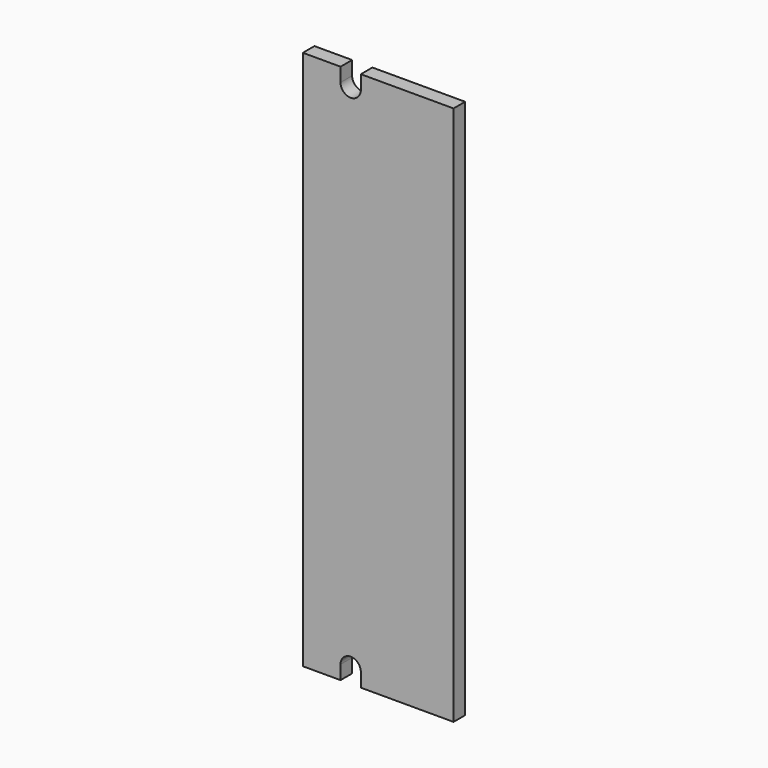
from build123d import *

# Parameters (mm, degrees)
F0_W     = 33.02
F0_H     = 118.364
F1_DEPTH = 3.175
F3_DEPTH = 3.176


with BuildPart() as f1:
    # F0 (on Front) → F1 (new body)
    with BuildSketch(Plane.XZ):
        with Locations((-16.51, 59.182)):
            Rectangle(F0_W, F0_H)
    extrude(amount=F1_DEPTH)

    # F2 (on face) → F3 (cut, through all)
    with BuildSketch(Plane.XZ.offset(3.175)):
        with BuildLine():
            Line((-24.765, 3.048), (-24.765, 0))
            Line((-24.765, 0), (-20.32, 0))
            Line((-20.32, 0), (-20.32, 3.048))
            ThreePointArc((-20.32, 3.048), (-22.5425, 5.2705), (-24.765, 3.048))
        make_face()
        with BuildLine():
            Line((-24.765, 118.364), (-24.765, 115.316))
            ThreePointArc((-24.765, 115.316), (-22.5425, 113.0935), (-20.32, 115.316))
            Line((-20.32, 115.316), (-20.32, 118.364))
            Line((-20.32, 118.364), (-24.765, 118.364))
        make_face()
    extrude(amount=-F3_DEPTH, mode=Mode.SUBTRACT)


solid = f1.part
